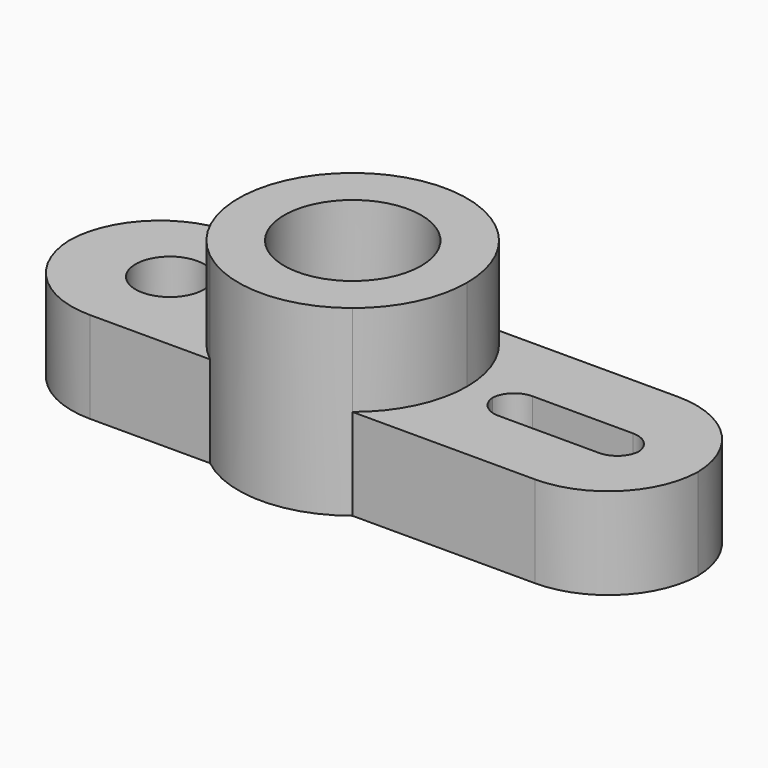
from build123d import *

# Parameters (mm, degrees)
F0_R     = 9.525
F1_DEPTH = 25.4
F0_R_2   = 19.05
F2_DEPTH = 50.8
F0_R_3   = 12.7
F3_DEPTH = 25.4


with BuildPart() as f1:
    # F0 (on Top) → F1 (new body)
    with BuildSketch(Plane.XY):
        with BuildLine():
            ThreePointArc((-19.7731447858, -24.8412005603), (-31.75, 0), (-19.7731447858, 24.8412005603))
            Line((-19.7731447858, 24.8412005603), (-53.1594258137, 24.8412005603))
            ThreePointArc((-53.1594258137, 24.8412005603), (-70.9212738909, 17.598203421), (-78.5532782821, 0))
            ThreePointArc((-78.5532782821, 0), (-70.9212738909, -17.598203421), (-53.1594258137, -24.8412005603))
            Line((-53.1594258137, -24.8412005603), (-19.7731447858, -24.8412005603))
        make_face()
        with Locations((-50.8, 0)):
            Circle(F0_R, mode=Mode.SUBTRACT)
    extrude(amount=F1_DEPTH)

    # F0 (on Top) → F2 (join)
    with BuildSketch(Plane.XY):
        with BuildLine():
            ThreePointArc((-19.7731447858, -24.8412005603), (0, -31.75), (19.7731447858, -24.8412005603))
            Line((19.7731447858, -24.8412005603), (-19.7731447858, -24.8412005603))
        make_face()
        with BuildLine():
            Line((-19.7731447858, 24.8412005603), (19.7731447858, 24.8412005603))
            ThreePointArc((19.7731447858, 24.8412005603), (0, 31.75), (-19.7731447858, 24.8412005603))
        make_face()
        with BuildLine():
            ThreePointArc((19.7731447858, -24.8412005603), (28.5994741818, -13.7888569695), (31.75, 0))
            ThreePointArc((31.75, 0), (28.5994741818, 13.7888569695), (19.7731447858, 24.8412005603))
            Line((19.7731447858, 24.8412005603), (-19.7731447858, 24.8412005603))
            ThreePointArc((-19.7731447858, 24.8412005603), (-31.75, 0), (-19.7731447858, -24.8412005603))
            Line((-19.7731447858, -24.8412005603), (19.7731447858, -24.8412005603))
        make_face()
        Circle(F0_R_2, mode=Mode.SUBTRACT)
    extrude(amount=F2_DEPTH)

    # F0 (on Top) → F3 (join)
    with BuildSketch(Plane.XY):
        with BuildLine():
            ThreePointArc((19.7731447858, 24.8412005603), (28.5994741818, 13.7888569695), (31.75, 0))
            ThreePointArc((31.75, 0), (28.5994741818, -13.7888569695), (19.7731447858, -24.8412005603))
            Line((19.7731447858, -24.8412005603), (70.5508692495, -24.8412005603))
            ThreePointArc((70.5508692495, -24.8412005603), (88.3127173267, -17.598203421), (95.9447217179, 0))
            ThreePointArc((95.9447217179, 0), (88.3127173267, 17.598203421), (70.5508692495, 24.8412005603))
            Line((70.5508692495, 24.8412005603), (19.7731447858, 24.8412005603))
        make_face()
        with BuildLine():
            ThreePointArc((39.3356828899, -0.5587994397), (41.3437381638, 3.6329638912), (45.6692023039, 5.3340005688))
            Line((45.6692023039, 5.3340005688), (73.6092023039, 5.3340005688))
            ThreePointArc((73.6092023039, 5.3340005688), (77.934666444, 3.6329638912), (79.9427217179, -0.5587994397))
            ThreePointArc((79.9427217179, -0.5587994397), (77.934666444, -4.7505627706), (73.6092023039, -6.4515994482))
            Line((73.6092023039, -6.4515994482), (45.6692023039, -6.4515994482))
            ThreePointArc((45.6692023039, -6.4515994482), (41.3437381638, -4.7505627706), (39.3356828899, -0.5587994397))
        make_face(mode=Mode.SUBTRACT)
        Circle(F0_R_2)
        Circle(F0_R_3, mode=Mode.SUBTRACT)
    extrude(amount=F3_DEPTH)


solid = f1.part
